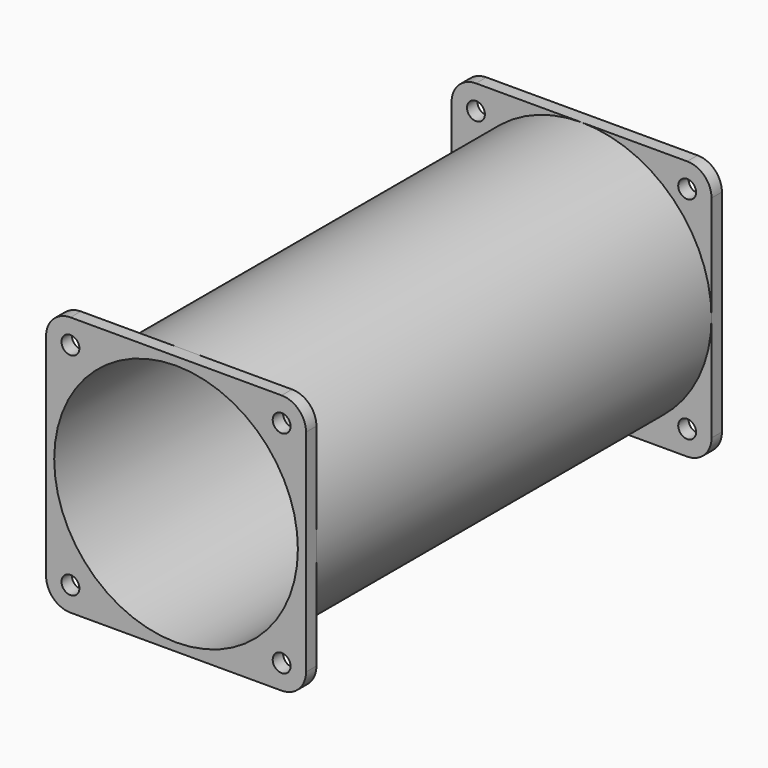
from build123d import *

# Parameters (mm, degrees)
F1_R     = 5.5
F1_R_2   = 75
F2_DEPTH = 8
F3_DEPTH = 320
F4_START = 312
F4_DEPTH = 8


with BuildPart() as f2:
    # F1 (on Front) → F2 (new body)
    with BuildSketch(Plane.XZ):
        with BuildLine():
            Line((0, -80), (65, -80))
            ThreePointArc((65, -80), (75.6066017178, -75.6066017178), (80, -65))
            Line((80, -65), (80, 0))
            ThreePointArc((80, 0), (56.5685424949, -56.5685424949), (0, -80))
        make_face()
        with Locations((65, -65)):
            Circle(F1_R, mode=Mode.SUBTRACT)
        with BuildLine():
            Line((-65, -80), (0, -80))
            ThreePointArc((0, -80), (-56.5685424251, -56.5685425648), (-80, -1.976e-07))
            Line((-80, -1.976e-07), (-80, -65))
            ThreePointArc((-80, -65), (-75.6066017178, -75.6066017178), (-65, -80))
        make_face()
        with Locations((-65, -65)):
            Circle(F1_R, mode=Mode.SUBTRACT)
        with BuildLine():
            ThreePointArc((-80, -1.976e-07), (-56.5685424251, -56.5685425648), (0, -80))
            ThreePointArc((0, -80), (56.5685424949, -56.5685424949), (80, 0))
            ThreePointArc((80, 0), (56.5685424949, 56.5685424949), (0, 80))
            ThreePointArc((0, 80), (-56.5685425648, 56.5685424251), (-80, -1.976e-07))
        make_face()
        Circle(F1_R_2, mode=Mode.SUBTRACT)
        with BuildLine():
            Line((-80, 65), (-80, -1.976e-07))
            ThreePointArc((-80, -1.976e-07), (-56.5685425648, 56.5685424251), (0, 80))
            Line((0, 80), (-65, 80))
            ThreePointArc((-65, 80), (-75.6066017178, 75.6066017178), (-80, 65))
        make_face()
        with Locations((-65, 65)):
            Circle(F1_R, mode=Mode.SUBTRACT)
        with BuildLine():
            ThreePointArc((0, 80), (56.5685424949, 56.5685424949), (80, 0))
            Line((80, 0), (80, 65))
            ThreePointArc((80, 65), (75.6066017178, 75.6066017178), (65, 80))
            Line((65, 80), (0, 80))
        make_face()
        with Locations((65, 65)):
            Circle(F1_R, mode=Mode.SUBTRACT)
    extrude(amount=F2_DEPTH)

    # F1 (on Front) → F3 (join, through all)
    with BuildSketch(Plane.XZ):
        with BuildLine():
            ThreePointArc((-80, -1.976e-07), (-56.5685424251, -56.5685425648), (0, -80))
            ThreePointArc((0, -80), (56.5685424949, -56.5685424949), (80, 0))
            ThreePointArc((80, 0), (56.5685424949, 56.5685424949), (0, 80))
            ThreePointArc((0, 80), (-56.5685425648, 56.5685424251), (-80, -1.976e-07))
        make_face()
        Circle(F1_R_2, mode=Mode.SUBTRACT)
    extrude(amount=F3_DEPTH)

    # F1 (on Front) → F4 (join)
    with BuildSketch(Plane.XZ.offset(F4_START)):
        with BuildLine():
            Line((0, -80), (65, -80))
            ThreePointArc((65, -80), (75.6066017178, -75.6066017178), (80, -65))
            Line((80, -65), (80, 0))
            ThreePointArc((80, 0), (56.5685424949, -56.5685424949), (0, -80))
        make_face()
        with Locations((65, -65)):
            Circle(F1_R, mode=Mode.SUBTRACT)
        with BuildLine():
            Line((-65, -80), (0, -80))
            ThreePointArc((0, -80), (-56.5685424251, -56.5685425648), (-80, -1.976e-07))
            Line((-80, -1.976e-07), (-80, -65))
            ThreePointArc((-80, -65), (-75.6066017178, -75.6066017178), (-65, -80))
        make_face()
        with Locations((-65, -65)):
            Circle(F1_R, mode=Mode.SUBTRACT)
        with BuildLine():
            ThreePointArc((0, 80), (56.5685424949, 56.5685424949), (80, 0))
            Line((80, 0), (80, 65))
            ThreePointArc((80, 65), (75.6066017178, 75.6066017178), (65, 80))
            Line((65, 80), (0, 80))
        make_face()
        with Locations((65, 65)):
            Circle(F1_R, mode=Mode.SUBTRACT)
        with BuildLine():
            Line((-80, 65), (-80, -1.976e-07))
            ThreePointArc((-80, -1.976e-07), (-56.5685425648, 56.5685424251), (0, 80))
            Line((0, 80), (-65, 80))
            ThreePointArc((-65, 80), (-75.6066017178, 75.6066017178), (-80, 65))
        make_face()
        with Locations((-65, 65)):
            Circle(F1_R, mode=Mode.SUBTRACT)
    extrude(amount=F4_DEPTH)


solid = f2.part
